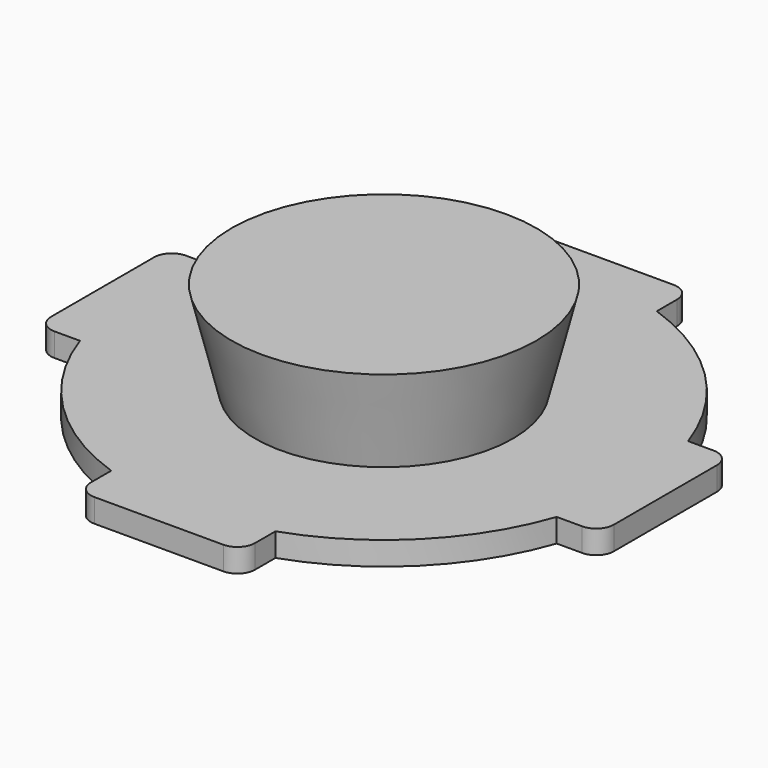
from build123d import *

# Parameters (mm, degrees)
BOX_W          = 14
BOX_H          = 48
BOX_DEPTH      = 2
FILLET_R       = 1.5
BOX001_W       = 48
BOX001_H       = 14
BOX001_DEPTH   = 2
FILLET001_R    = 1.5
CYLINDER_R     = 21.5
CYLINDER_DEPTH = 2


with BuildPart() as cone:
    # Cone → Cone (revolve)
    with BuildSketch(Plane(origin=(0, 0, 2), x_dir=(1, 0, 0), z_dir=(0, -1, 0))):
        Polygon((0, 0), (11, 0), (13, 8), (0, 8), align=None)
    revolve(axis=Axis((0, 0, 2), (0, 0, 1)))


with BuildPart() as fillet_body:
    # Box → Box (new body)
    with BuildSketch(Plane(origin=(-7, -24, 0), x_dir=(1, 0, 0), z_dir=(0, 0, 1))):
        with Locations((7, 24)):
            Rectangle(BOX_W, BOX_H)
    extrude(amount=BOX_DEPTH)

    # Fillet
    fillet_edges = [fillet_body.edges().sort_by_distance(p)[0] for p in [
        (-7, -24, 1),
        (-7, 24, 1),
        (7, -24, 1),
        (7, 24, 1),
    ]]
    fillet(fillet_edges, radius=FILLET_R)


with BuildPart() as fillet001:
    # Box001 → Box001 (new body)
    with BuildSketch(Plane(origin=(-24, -7, 0), x_dir=(1, 0, 0), z_dir=(0, 0, 1))):
        with Locations((24, 7)):
            Rectangle(BOX001_W, BOX001_H)
    extrude(amount=BOX001_DEPTH)

    # Fillet001
    fillet001_edges = [fillet001.edges().sort_by_distance(p)[0] for p in [
        (-24, -7, 1),
        (-24, 7, 1),
        (24, -7, 1),
        (24, 7, 1),
    ]]
    fillet(fillet001_edges, radius=FILLET001_R)


with BuildPart() as obj1:
    # Cylinder → Cylinder (new body)
    with BuildSketch(Plane.XY):
        Circle(CYLINDER_R)
    extrude(amount=CYLINDER_DEPTH)

    # Fusion: union Cone, Fillet body, Fillet001
    add(cone.part)
    add(fillet_body.part)
    add(fillet001.part)


solid = obj1.part
